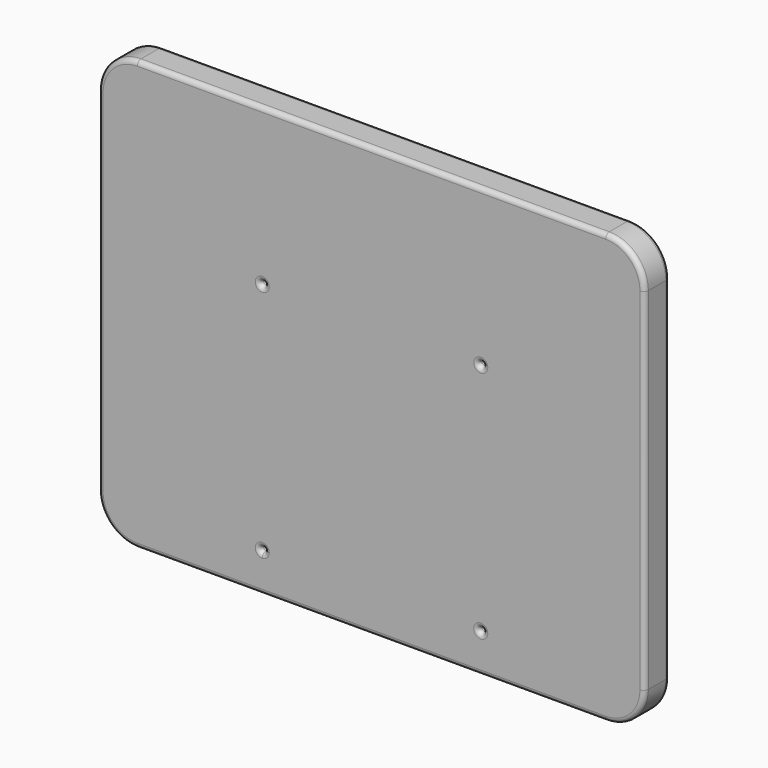
from build123d import *

# Parameters (mm, degrees)
F0_R     = 1.5
F1_DEPTH = 10
F2_R     = 3


with BuildPart() as f1:
    # F0 (on Front) → F1 (new body, symmetric)
    with BuildSketch(Plane.XZ):
        with BuildLine():
            Line((-150, -100.733752), (-70, -100.733752))
            Line((-70, -100.733752), (0, -100.733752))
            Line((0, -100.733752), (150, -100.733752))
            ThreePointArc((150, -100.733752), (167.67767, -93.411421), (175, -75.733752))
            Line((175, -75.733752), (175, 24.266248))
            Line((175, 24.266248), (175, 149.266248))
            ThreePointArc((175, 149.266248), (167.67767, 166.943918), (150, 174.266248))
            Line((150, 174.266248), (0, 174.266248))
            Line((0, 174.266248), (-150, 174.266248))
            ThreePointArc((-150, 174.266248), (-167.67767, 166.943918), (-175, 149.266248))
            Line((-175, 149.266248), (-175, 24.266248))
            Line((-175, 24.266248), (-175, -75.733752))
            ThreePointArc((-175, -75.733752), (-167.67767, -93.411421), (-150, -100.733752))
        make_face()
        with BuildLine():
            ThreePointArc((-70, -77.233752), (-71.06066, -74.673092), (-68.5, -75.733752))
            ThreePointArc((-68.5, -75.733752), (-68.93934, -76.794412), (-70, -77.233752))
        make_face(mode=Mode.SUBTRACT)
        with BuildLine():
            ThreePointArc((71.5, -75.733752), (70, -77.233752), (68.5, -75.733752))
            ThreePointArc((68.5, -75.733752), (70, -74.233752), (71.5, -75.733752))
        make_face(mode=Mode.SUBTRACT)
        with Locations((-70, 74.266248)):
            Circle(F0_R, mode=Mode.SUBTRACT)
        with BuildLine():
            ThreePointArc((71.5, 74.266248), (70, 72.766248), (68.5, 74.266248))
            ThreePointArc((68.5, 74.266248), (70, 75.766248), (71.5, 74.266248))
        make_face(mode=Mode.SUBTRACT)
    extrude(amount=F1_DEPTH, both=True)

    # F2
    f2_edges = [f1.edges().sort_by_distance(p)[0] for p in [
        (0, 10, -100.733752),
        (167.67767, 10, -93.411421),
        (175, 10, 36.766248),
        (167.67767, 10, 166.943918),
        (0, 10, 174.266248),
        (-167.67767, 10, 166.943918),
        (-175, 10, 36.766248),
        (-167.67767, 10, -93.411421),
        (-71.5, 10, -75.733752),
        (71.5, 10, -75.733752),
        (-71.5, 10, 74.266248),
        (71.5, 10, 74.266248),
        (0, -10, -100.733752),
        (167.67767, -10, -93.411421),
        (175, -10, 36.766248),
        (167.67767, -10, 166.943918),
        (0, -10, 174.266248),
        (-167.67767, -10, 166.943918),
        (-175, -10, 36.766248),
        (-167.67767, -10, -93.411421),
        (-71.5, -10, -75.733752),
        (71.5, -10, -75.733752),
        (-71.5, -10, 74.266248),
        (71.5, -10, 74.266248),
    ]]
    fillet(f2_edges, radius=F2_R)


solid = f1.part
